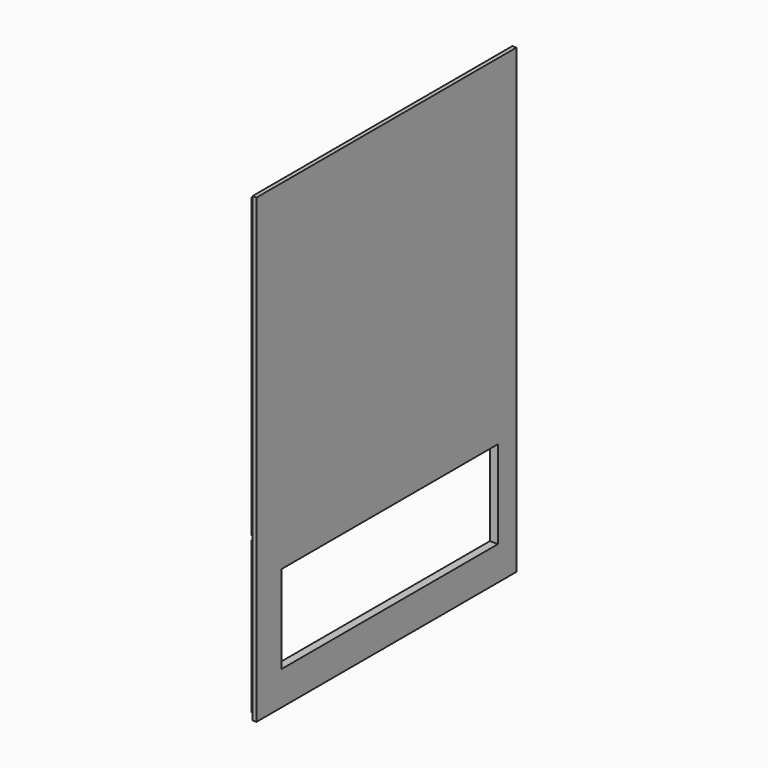
from build123d import *

# Parameters (mm, degrees)
F0_W      = 480
F0_H      = 682
F1_DEPTH  = 12
F2_W      = 6
F2_H      = 682
F3_DEPTH  = 6
F4_W      = 474
F4_H      = 6
F5_DEPTH  = 6
F6_W      = 6
F6_H      = 66
F7_DEPTH  = 6
F8_W      = 474
F8_H      = 6
F9_DEPTH  = 6
F10_W     = 400
F10_H     = 130
F11_DEPTH = 12
F12_W     = 474
F12_H     = 6
F13_DEPTH = 6


with BuildPart() as f1:
    # F0 (on Right) → F1 (new body)
    with BuildSketch(Plane.YZ):
        Rectangle(F0_W, F0_H)
    extrude(amount=F1_DEPTH)

    # F2 (on face) → F3 (cut)
    with BuildSketch(Plane(origin=(0, 0, 0), x_dir=(0, -1, 0), z_dir=(-1, 0, 0))):
        with Locations((237, 0)):
            Rectangle(F2_W, F2_H)
    extrude(amount=-F3_DEPTH, mode=Mode.SUBTRACT)

    # F4 (on face) → F5 (cut)
    with BuildSketch(Plane(origin=(0, 0, 0), x_dir=(0, -1, 0), z_dir=(-1, 0, 0))):
        with Locations((-3, 338)):
            Rectangle(F4_W, F4_H)
    extrude(amount=-F5_DEPTH, mode=Mode.SUBTRACT)

    # F6 (on face) → F7 (cut)
    with BuildSketch(Plane(origin=(0, 0, 0), x_dir=(0, -1, 0), z_dir=(-1, 0, 0))):
        with Locations((-237, 302)):
            Rectangle(F6_W, F6_H)
    extrude(amount=-F7_DEPTH, mode=Mode.SUBTRACT)

    # F8 (on face) → F9 (cut)
    with BuildSketch(Plane(origin=(0, 0, 0), x_dir=(0, -1, 0), z_dir=(-1, 0, 0))):
        with Locations((-3, -108)):
            Rectangle(F8_W, F8_H)
    extrude(amount=-F9_DEPTH, mode=Mode.SUBTRACT)

    # F10 (on face) → F11 (cut, through all)
    with BuildSketch(Plane.YZ.offset(12)):
        with Locations((6, -226)):
            Rectangle(F10_W, F10_H)
    extrude(amount=-F11_DEPTH, mode=Mode.SUBTRACT)

    # F12 (on face) → F13 (cut)
    with BuildSketch(Plane(origin=(0, 0, 0), x_dir=(0, -1, 0), z_dir=(-1, 0, 0))):
        with Locations((-3, -338)):
            Rectangle(F12_W, F12_H)
    extrude(amount=-F13_DEPTH, mode=Mode.SUBTRACT)


solid = f1.part
